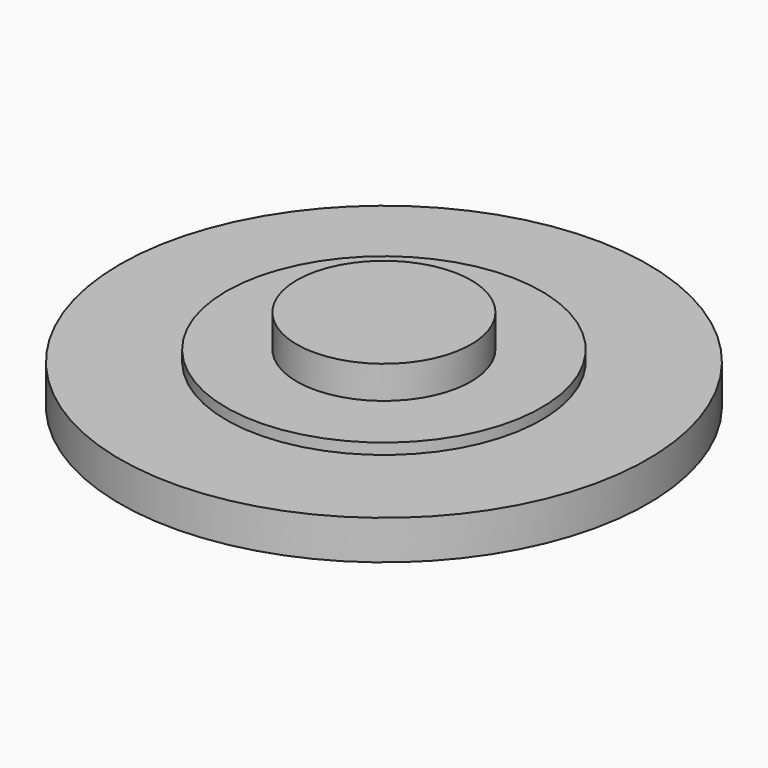
from build123d import *


with BuildPart() as f1:
    # F0 (on Front) → F1 (revolve)
    with BuildSketch(Plane.XZ):
        with BuildLine():
            Line((-4, 7.62418), (-4, 6.12418))
            Line((-4, 6.12418), (-7.236246, 6.12418))
            Line((-7.236246, 6.12418), (-7.236246, 5.62418))
            Line((-7.236246, 5.62418), (-12.11882, 5.62418))
            Line((-12.11882, 5.62418), (-12.11882, 3.824744))
            Line((-12.11882, 3.824744), (-10.61882, 3.824744))
            ThreePointArc((-10.61882, 3.824744), (-5.357635, 4.83743), (0, 4.87418))
            Line((0, 4.87418), (0, 7.62418))
            Line((0, 7.62418), (-4, 7.62418))
        make_face()
    revolve(axis=Axis((0, 0, 6.24918), (0, 0, -1)))


solid = f1.part
